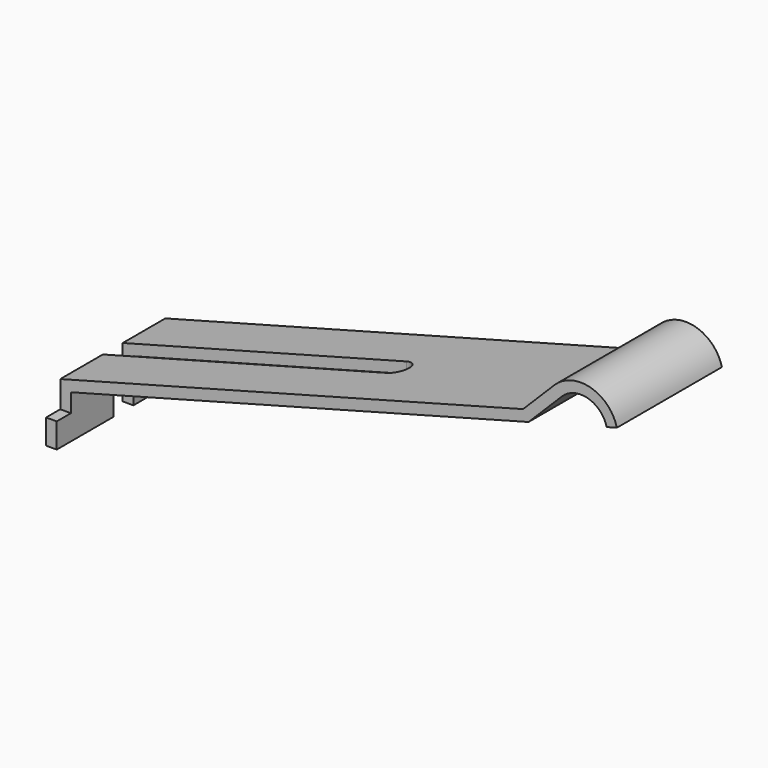
from build123d import *

# Parameters (mm, degrees)
PAD035_DEPTH    = 1.85
POCKET020_DEPTH = 6.136478
SKETCH051_W     = 0.3
SKETCH051_H     = 0.7
PAD036_DEPTH    = 0.5
SKETCH052_W     = 0.3
SKETCH052_H     = 0.7
PAD037_DEPTH    = 0.5


with BuildPart() as part:
    # Sketch049 → Pad035 (new body, symmetric)
    with BuildSketch(Plane.XZ):
        with BuildLine():
            Line((-5.3, 5.3), (-5.3, 3.85))
            Line((-5.3, 3.85), (-5, 3.85))
            Line((-5, 3.85), (-5, 5.069802))
            Line((-5, 5.069802), (7.89529, 8.525084))
            Line((8.836014, 9.465809), (7.89529, 8.525084))
            ThreePointArc((10.094687, 9.114411), (9.568018, 9.657855), (8.836014, 9.465809))
            Line((10.094687, 9.114411), (10.38451, 9.192069))
            ThreePointArc((10.38451, 9.192069), (9.645667, 9.947644), (8.623882, 9.677941))
            Line((8.623882, 9.677941), (7.739999, 8.794057))
            Line((-5.3, 5.3), (7.739999, 8.794057))
        make_face()
    extrude(amount=PAD035_DEPTH, both=True)

    # Sketch050 (on Face6 of Pad035) → Pocket020 (cut, through all)
    with BuildSketch(Plane(origin=(0, 0, 3.85), x_dir=(1, 0, 0), z_dir=(0, 0, -1))):
        with BuildLine():
            ThreePointArc((-5.3, 0.35), (-5.65, 0), (-5.3, -0.35))
            Line((-5.3, -0.35), (2.7, -0.35))
            ThreePointArc((2.7, -0.35), (3.05, 0), (2.7, 0.35))
            Line((2.7, 0.35), (-5.3, 0.35))
        make_face()
    extrude(amount=-POCKET020_DEPTH, mode=Mode.SUBTRACT)

    # Sketch051 (on Face5 of Pocket020) → Pad036 (join)
    with BuildSketch(Plane.XZ.offset(1.85)):
        with Locations((-5.15, 4.2)):
            Rectangle(SKETCH051_W, SKETCH051_H)
    extrude(amount=PAD036_DEPTH)

    # Sketch052 (on Face4 of Pad036) → Pad037 (join)
    with BuildSketch(Plane(origin=(0, 1.85, 0), x_dir=(1, 0, 0), z_dir=(0, 1, 0))):
        with Locations((-5.15, -4.2)):
            Rectangle(SKETCH052_W, SKETCH052_H)
    extrude(amount=PAD037_DEPTH)


solid = part.part
